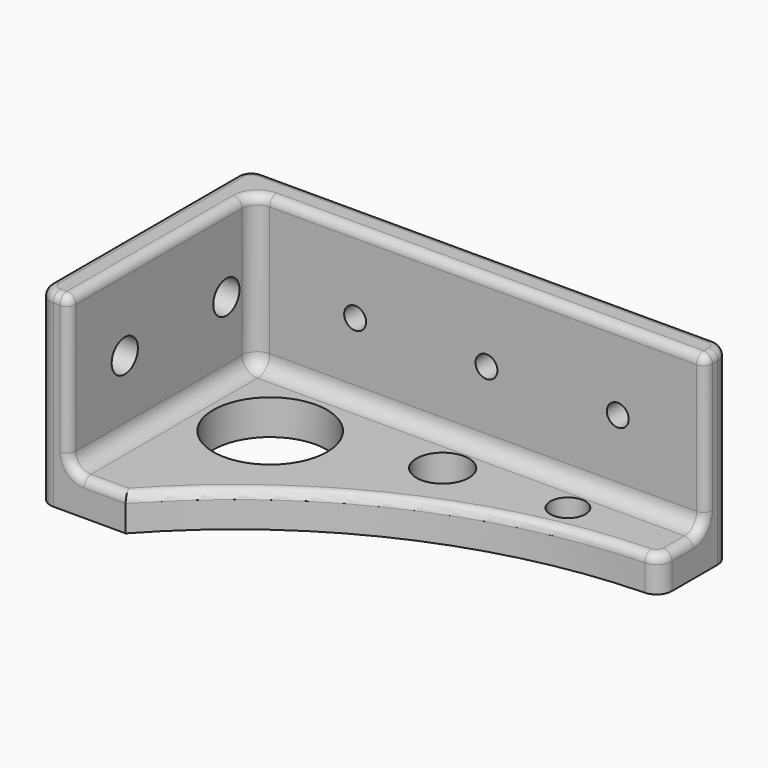
from build123d import *

# Parameters (mm, degrees)
SKETCH052_R       = 13
SKETCH052_R_2     = 6
SKETCH052_R_3     = 4
PAD027_DEPTH      = 8
PAD028_DEPTH      = 35
CYLINDER016_R     = 3.75
CYLINDER016_DEPTH = 40
CYLINDER017_R     = 3.75
CYLINDER017_DEPTH = 30
CYLINDER018_R     = 2.5
CYLINDER018_DEPTH = 50
CYLINDER019_R     = 2.5
CYLINDER019_DEPTH = 40
CYLINDER020_R     = 2.5
CYLINDER020_DEPTH = 40
FILLET022_R       = 3.5
FILLET023_R       = 2


with BuildPart() as part:
    # Sketch052 → Pad027 (new body)
    with BuildSketch(Plane.XY):
        with BuildLine():
            Line((0, 0), (0, 60))
            Line((0, 60), (110, 60))
            Line((110, 60), (110, 40))
            ThreePointArc((110, 40), (60.755711, 29.54965), (20, 0))
            Line((20, 0), (0, 0))
        make_face()
        with Locations((25, 35)):
            Circle(SKETCH052_R, mode=Mode.SUBTRACT)
        with Locations((58, 43)):
            Circle(SKETCH052_R_2, mode=Mode.SUBTRACT)
        with Locations((85, 45)):
            Circle(SKETCH052_R_3, mode=Mode.SUBTRACT)
    extrude(amount=PAD027_DEPTH)

    # Sketch053 (on Face10 of Pad027) → Pad028 (join)
    with BuildSketch(Plane.XY.offset(8)):
        Polygon((0, 0), (0, 60), (110, 60), (110, 53), (7, 53), (7, 0), align=None)
    extrude(amount=PAD028_DEPTH)

    # Cylinder016 → Cylinder016 (cut)
    with BuildSketch(Plane(origin=(0, 45, 25), x_dir=(0, 1, 0), z_dir=(1, 0, 0))):
        Circle(CYLINDER016_R)
    extrude(amount=CYLINDER016_DEPTH, mode=Mode.SUBTRACT)

    # Cylinder017 → Cylinder017 (cut)
    with BuildSketch(Plane(origin=(0, 16, 25), x_dir=(0, 1, 0), z_dir=(1, 0, 0))):
        Circle(CYLINDER017_R)
    extrude(amount=CYLINDER017_DEPTH, mode=Mode.SUBTRACT)

    # Cylinder018 → Cylinder018 (cut)
    with BuildSketch(Plane(origin=(30, 70, 25), x_dir=(1, 0, 0), z_dir=(0, -1, 0))):
        Circle(CYLINDER018_R)
    extrude(amount=CYLINDER018_DEPTH, mode=Mode.SUBTRACT)

    # Cylinder019 → Cylinder019 (cut)
    with BuildSketch(Plane(origin=(60, 70, 25), x_dir=(1, 0, 0), z_dir=(0, -1, 0))):
        Circle(CYLINDER019_R)
    extrude(amount=CYLINDER019_DEPTH, mode=Mode.SUBTRACT)

    # Cylinder020 → Cylinder020 (cut)
    with BuildSketch(Plane(origin=(90, 70, 25), x_dir=(1, 0, 0), z_dir=(0, -1, 0))):
        Circle(CYLINDER020_R)
    extrude(amount=CYLINDER020_DEPTH, mode=Mode.SUBTRACT)

    # Fillet022
    fillet022_edges = [part.edges().sort_by_distance(p)[0] for p in [
        (0, 60, 25.5),
        (7, 53, 25.5),
        (0, 0, 25.5),
        (7, 26.5, 8),
        (58.5, 53, 8),
        (110, 40, 4),
        (110, 60, 25.5),
    ]]
    fillet(fillet022_edges, radius=FILLET022_R)

    # Fillet023
    fillet023_edges = [part.edges().sort_by_distance(p)[0] for p in [
        (59.206101, 28.847876, 8),
        (15.25, 0, 8),
        (7, 24.75, 43),
        (55, 60, 43),
    ]]
    fillet(fillet023_edges, radius=FILLET023_R)


solid = part.part
